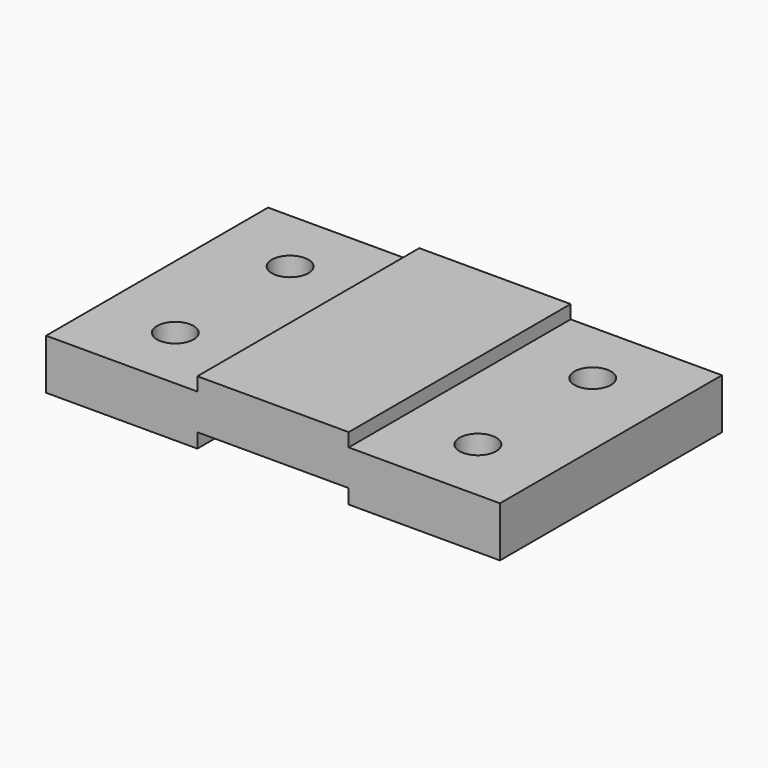
from build123d import *

# Parameters (mm, degrees)
F1_DEPTH = 83.2
F4_D     = 11


with BuildPart() as f1:
    # F0 (on Front) → F1 (new body)
    with BuildSketch(Plane.XZ):
        Polygon((0, 15.08), (0, 0), (45.37, 0), (45.37, 4.35), (90.75, 4.35), (90.75, 0), (136.12, 0), (136.12, 15.08), (90.75, 15.08), (90.75, 19.12), (45.37, 19.12), (45.37, 15.08), align=None)
    extrude(amount=-F1_DEPTH)

    # F4 (through all)
    with Locations(Plane.XY.offset(15.08)):
        with Locations((22.69, 20.08), (22.69, 63.12), (113.43, 63.12), (113.43, 20.08)):
            Hole(F4_D / 2)


solid = f1.part
